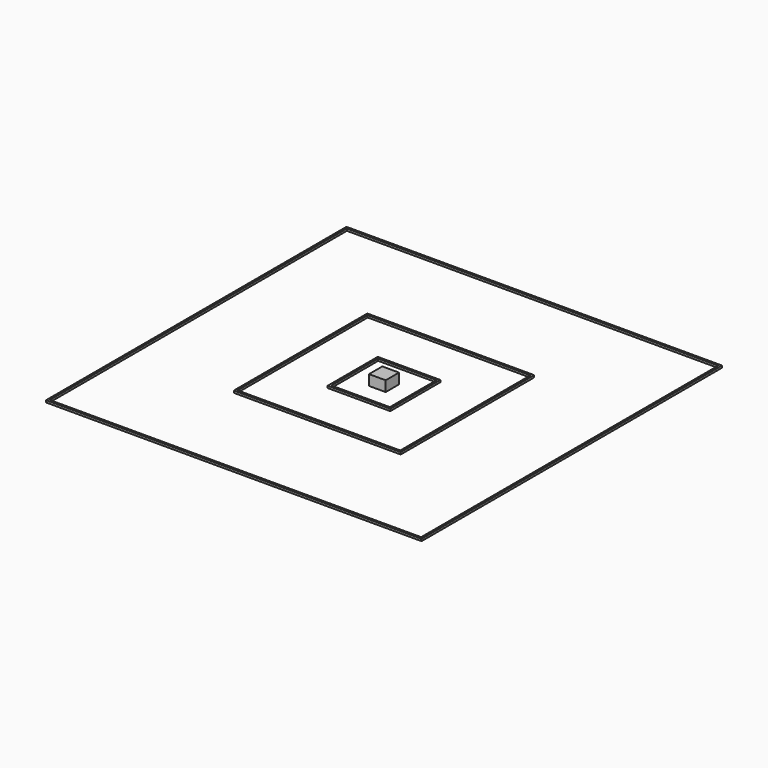
from build123d import *

# Parameters (mm, degrees)
F0_W     = 80
F0_H     = 80
F0_W_2   = 78
F0_H_2   = 78
F1_DEPTH = 1
F0_W_3   = 30
F0_H_3   = 30
F0_W_4   = 28
F0_H_4   = 28
F0_W_5   = 180
F0_H_5   = 180
F0_W_6   = 178
F0_H_6   = 178
F2_W     = 8
F2_H     = 8
F3_DEPTH = 5


with BuildPart() as f1:
    # F0 (on Top) → F1 (new body)
    with BuildSketch(Plane.XY):
        Rectangle(F0_W, F0_H)
        Rectangle(F0_W_2, F0_H_2, mode=Mode.SUBTRACT)
    extrude(amount=F1_DEPTH)


with BuildPart() as f1b:
    # F0 (on Top) → F1, piece 2 (new body)
    with BuildSketch(Plane.XY):
        Rectangle(F0_W_3, F0_H_3)
        Rectangle(F0_W_4, F0_H_4, mode=Mode.SUBTRACT)
    extrude(amount=F1_DEPTH)


with BuildPart() as f1c:
    # F0 (on Top) → F1, piece 3 (new body)
    with BuildSketch(Plane.XY):
        Rectangle(F0_W_5, F0_H_5)
        Rectangle(F0_W_6, F0_H_6, mode=Mode.SUBTRACT)
    extrude(amount=F1_DEPTH)


with BuildPart() as f3:
    # F2 (on Top) → F3 (new body)
    with BuildSketch(Plane.XY):
        Rectangle(F2_W, F2_H)
        Rectangle(F2_W, F2_H)
    extrude(amount=F3_DEPTH)


solid = Compound([f1.part, f1b.part, f1c.part, f3.part])
